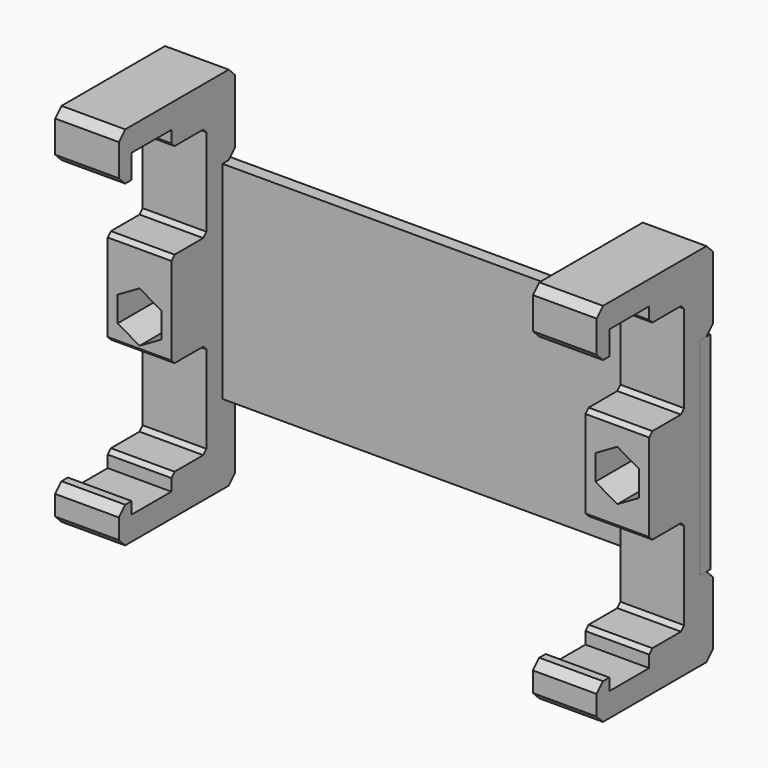
from build123d import *

# Parameters (mm, degrees)
F0_W      = 66
F0_H      = 26
F0_R      = 1.5
F1_DEPTH  = 0.8
F4_DEPTH  = 4
F5_SIZE   = 0.5
F6_SIZE   = 1
F10_DEPTH = 6.5
F11_D     = 3.2
F11_2_D   = 3.2


with BuildPart() as f1:
    # F0 (on Front) → F1 (new body, symmetric)
    with BuildSketch(Plane.XZ):
        Rectangle(F0_W, F0_H)
        with Locations((-31, -2)):
            Circle(F0_R, mode=Mode.SUBTRACT)
        with Locations((29, 0)):
            Circle(F0_R, mode=Mode.SUBTRACT)
    extrude(amount=F1_DEPTH, both=True)


with BuildPart() as f4:
    # F3 (on face) → F4 (new body, symmetric)
    with BuildSketch(Plane.YZ.offset(29)):
        Polygon((-17.05, 23), (-17.05, 17), (-15.05, 17), (-15.05, 20), (-8.8, 20), (-8.8, 18), (-3.3, 18), (-3.3, 6), (-8.8, 6), (-8.8, -6), (-3.3, -6), (-3.3, -18), (-8.8, -18), (-8.8, -20), (-15.05, -20), (-15.05, -18.5), (-17.05, -18.5), (-17.05, -23), (1.2, -23), (1.2, -13), (-0.8, -13), (-0.8, 13), (1.2, 13), (1.2, 23), align=None)
    extrude(amount=F4_DEPTH, both=True)

    # F5
    f5_edges = [f4.edges().sort_by_distance(p)[0] for p in [
        (29, -8.8, 18),
        (29, -3.3, 18),
        (29, -3.3, 6),
        (29, -8.8, 6),
        (29, -8.8, -6),
        (29, -3.3, -6),
        (29, -3.3, -18),
        (29, -8.8, -18),
    ]]
    chamfer(f5_edges, length=F5_SIZE)

    # F6
    f6_edges = [f4.edges().sort_by_distance(p)[0] for p in [
        (29, 1.2, -23),
        (29, -17.05, -23),
        (29, -17.05, 23),
        (29, -17.05, 17),
        (29, -17.05, -18.5),
        (29, 1.2, 23),
        (29, 1.2, 13),
        (29, 1.2, -13),
    ]]
    chamfer(f6_edges, length=F6_SIZE)


with BuildPart() as f7_1:
    # F7: copy of F4
    add(f4.part.moved(Location((-60, 0, 0))))

    # F8: cut F1
    add(f1.part, mode=Mode.SUBTRACT)


with BuildPart() as f4_1:
    add(f4.part)

    # F8: cut F1
    add(f1.part, mode=Mode.SUBTRACT)


with BuildPart() as f10_tool:
    # F9 (on face) → F10 (new body)
    with BuildSketch(Plane.XZ.offset(8.8)):
        Polygon((-33.75, -0.4122867597), (-33.75, -3.5877132403), (-31, -5.1754264805), (-28.25, -3.5877132403), (-28.25, -0.4122867597), (-31, 1.1754264805), align=None)
        Polygon((26.25, 1.5877132403), (26.25, -1.5877132403), (29, -3.1754264805), (31.75, -1.5877132403), (31.75, 1.5877132403), (29, 3.1754264805), align=None)
    extrude(amount=-F10_DEPTH)


with BuildPart() as f4_2:
    add(f4_1.part)

    # F10: cut by f10_tool
    add(f10_tool.part, mode=Mode.SUBTRACT)

    # F11 (through all)
    with Locations(Plane.XZ.offset(8.8)):
        with Locations((-31, -2), (29, 0)):
            Hole(F11_D / 2)


with BuildPart() as f7_1_1:
    add(f7_1.part)

    # F10: cut by f10_tool
    add(f10_tool.part, mode=Mode.SUBTRACT)

    # F11#2 (through all)
    with Locations(Plane.XZ.offset(8.8)):
        with Locations((-31, -2), (29, 0)):
            Hole(F11_2_D / 2)


solid = Compound([f1.part, f4_2.part, f7_1_1.part])
